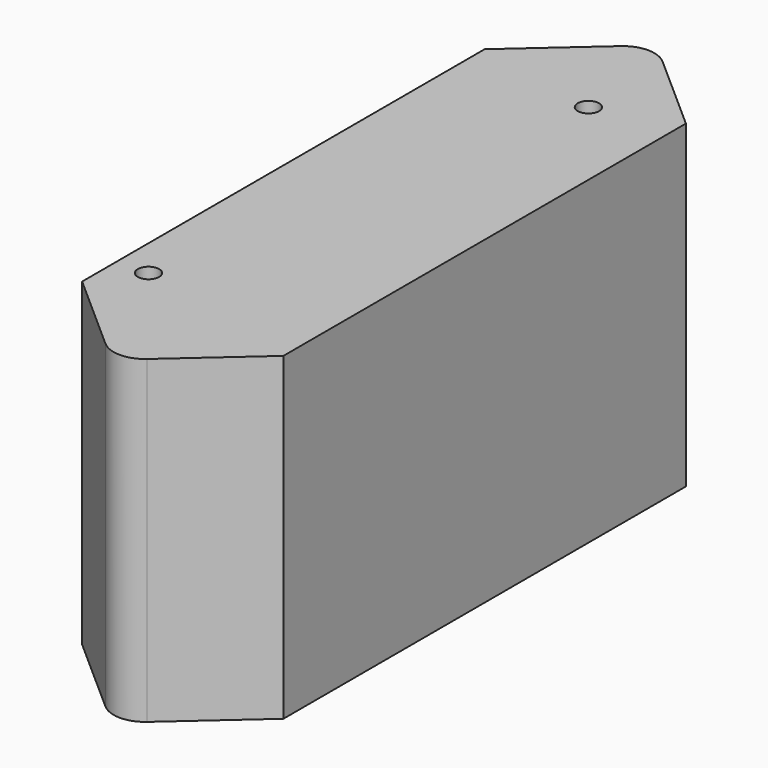
from build123d import *

# Parameters (mm, degrees)
F0_R     = 1.325
F0_W     = 16
F0_H     = 40
F0_R_2   = 0.85
F1_DEPTH = 25.4
F2_R     = 0.85
F3_DEPTH = 5


with BuildPart() as f1:
    # F0 (on Top) → F1 (new body)
    with BuildSketch(Plane.XY):
        with BuildLine():
            ThreePointArc((-1.65658, 25.612363), (-1.026779, 21.460587), (2.5, 23.74))
            ThreePointArc((2.5, 23.74), (2.279413, 24.766779), (1.65658, 25.612363))
            ThreePointArc((1.65658, 25.612363), (0, 26.24), (-1.65658, 25.612363))
        make_face()
        with Locations((0, 23.74)):
            Circle(F0_R, mode=Mode.SUBTRACT)
        with BuildLine():
            ThreePointArc((-1.65658, -25.612363), (0, -26.24), (1.65658, -25.612363))
            ThreePointArc((1.65658, -25.612363), (2.279413, -24.766779), (2.5, -23.74))
            ThreePointArc((2.5, -23.74), (-1.026779, -21.460587), (-1.65658, -25.612363))
        make_face()
        with Locations((0, -23.74)):
            Circle(F0_R, mode=Mode.SUBTRACT)
        with BuildLine():
            Line((1.65658, -25.612363), (8, -20))
            Line((8, -20), (-8, -20))
            Line((-8, -20), (-1.65658, -25.612363))
            ThreePointArc((-1.65658, -25.612363), (-1.026779, -21.460587), (2.5, -23.74))
            ThreePointArc((2.5, -23.74), (2.279413, -24.766779), (1.65658, -25.612363))
        make_face()
        Rectangle(F0_W, F0_H)
        with Locations((-5.5, -16.53)):
            Circle(F0_R_2, mode=Mode.SUBTRACT)
        with Locations((1.9, 17.94)):
            Circle(F0_R_2, mode=Mode.SUBTRACT)
        with Locations((-5.5, -16.53)):
            Circle(F0_R_2)
        with Locations((1.9, 17.94)):
            Circle(F0_R_2)
        with BuildLine():
            ThreePointArc((1.65658, 25.612363), (2.279413, 24.766779), (2.5, 23.74))
            ThreePointArc((2.5, 23.74), (-1.026779, 21.460587), (-1.65658, 25.612363))
            Line((-1.65658, 25.612363), (-8, 20))
            Line((-8, 20), (8, 20))
            Line((8, 20), (1.65658, 25.612363))
        make_face()
        with Locations((0, -23.74)):
            Circle(F0_R)
        with Locations((0, 23.74)):
            Circle(F0_R)
    extrude(amount=F1_DEPTH)

    # F2 (on face) → F3 (cut)
    with BuildSketch(Plane.XY.offset(25.4)):
        with Locations((1.9, 17.94)):
            Circle(F2_R)
        with Locations((-5.5, -16.53)):
            Circle(F2_R)
    extrude(amount=-F3_DEPTH, mode=Mode.SUBTRACT)


solid = f1.part
